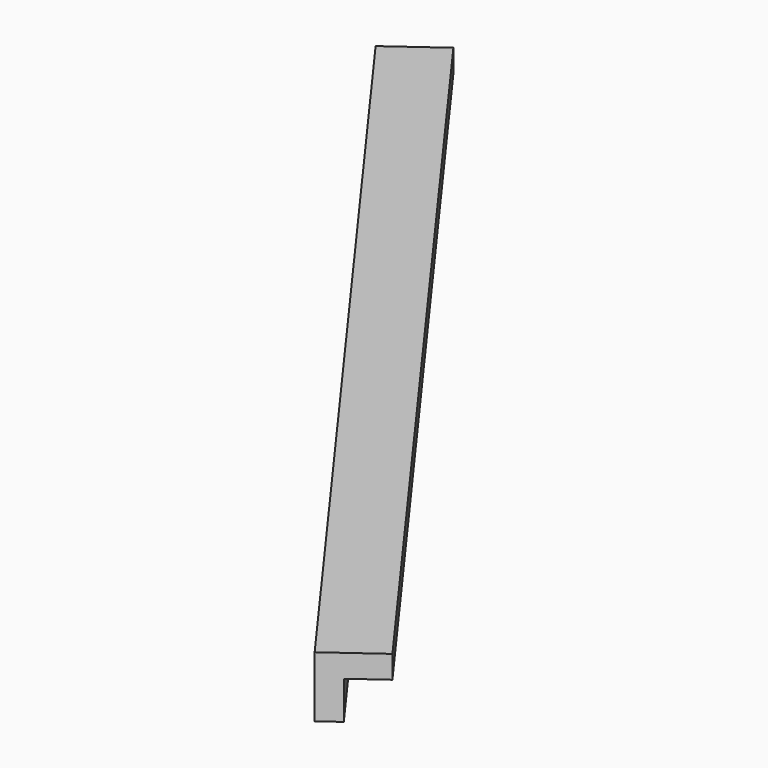
from build123d import *

# Parameters (mm, degrees)
BOX157_W               = 0.8
BOX157_H               = 13.5
BOX157_DEPTH           = 0.8
BOX158_W               = 0.8
BOX158_H               = 13.5
BOX158_DEPTH           = 0.8
CUT082_PLACEMENT_ANGLE = 216


with BuildPart() as cubo157:
    # Box157 → Box157 (new body)
    with BuildSketch(Plane.XY):
        with Locations((0.4, 6.75)):
            Rectangle(BOX157_W, BOX157_H)
    extrude(amount=BOX157_DEPTH)


with BuildPart() as obj1:
    # Box158 → Box158 (new body)
    with BuildSketch(Plane(origin=(0.3, 0, 0.3), x_dir=(1, 0, 0), z_dir=(0, 0, 1))):
        with Locations((0.4, 6.75)):
            Rectangle(BOX158_W, BOX158_H)
    extrude(amount=BOX158_DEPTH)

    # Cut082: cut Cubo157
    add(cubo157.part, mode=Mode.SUBTRACT)


with BuildPart() as obj1_1:
    # Cut082 placement: moved
    add(obj1.part.moved(Location((-218.4, 58.4, -1.45))).rotate(Axis((-218.4, 58.4, -1.45), (0, 0, 1)), CUT082_PLACEMENT_ANGLE))


solid = obj1_1.part
